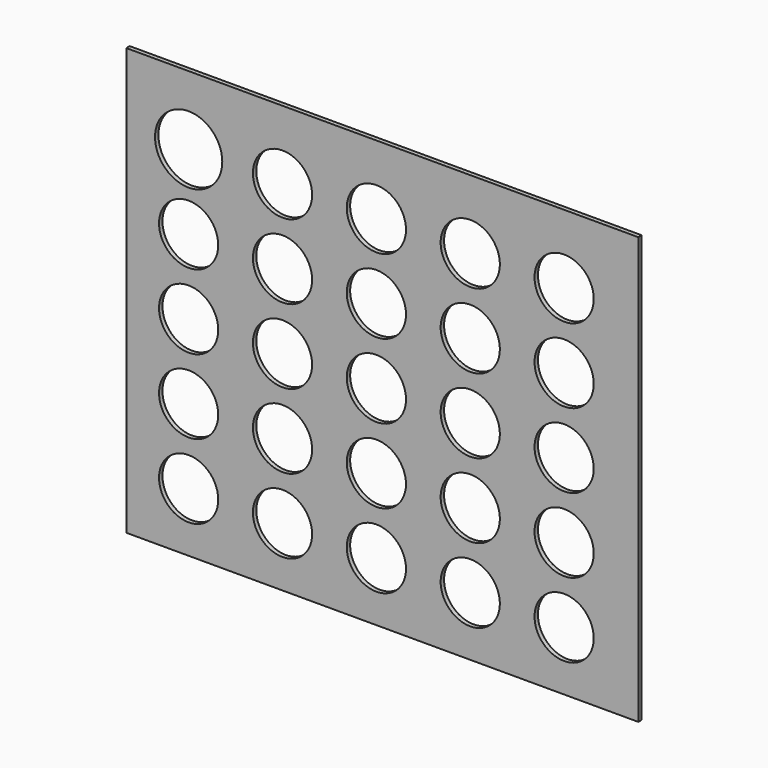
from build123d import *

# Parameters (mm, degrees)
F0_W     = 304.8
F0_H     = 254
F0_R     = 17.624016
F0_R_2   = 20.01992
F1_DEPTH = 2.54
F2_DEPTH = 0.0254


with BuildPart() as f1:
    # F0 (on Front) → F1 (new body)
    with BuildSketch(Plane.XZ):
        with Locations((46.453467, 38.54302)):
            Rectangle(F0_W, F0_H)
        with Locations((-68.827078, -53.292752)):
            Circle(F0_R, mode=Mode.SUBTRACT)
        with Locations((-12.947078, -53.292752)):
            Circle(F0_R, mode=Mode.SUBTRACT)
        with Locations((42.932922, -53.292752)):
            Circle(F0_R, mode=Mode.SUBTRACT)
        with Locations((-68.827078, -8.842752)):
            Circle(F0_R, mode=Mode.SUBTRACT)
        with Locations((-68.827078, 35.607248)):
            Circle(F0_R, mode=Mode.SUBTRACT)
        with Locations((-12.947078, -8.842752)):
            Circle(F0_R, mode=Mode.SUBTRACT)
        with Locations((42.932922, -8.842752)):
            Circle(F0_R, mode=Mode.SUBTRACT)
        with Locations((-12.947078, 35.607248)):
            Circle(F0_R, mode=Mode.SUBTRACT)
        with Locations((42.932922, 35.607248)):
            Circle(F0_R, mode=Mode.SUBTRACT)
        with Locations((98.812922, -53.292752)):
            Circle(F0_R, mode=Mode.SUBTRACT)
        with Locations((154.692922, -53.292752)):
            Circle(F0_R, mode=Mode.SUBTRACT)
        with Locations((98.812922, -8.842752)):
            Circle(F0_R, mode=Mode.SUBTRACT)
        with Locations((98.812922, 35.607248)):
            Circle(F0_R, mode=Mode.SUBTRACT)
        with Locations((154.692922, -8.842752)):
            Circle(F0_R, mode=Mode.SUBTRACT)
        with Locations((154.692922, 35.607248)):
            Circle(F0_R, mode=Mode.SUBTRACT)
        with Locations((-68.827078, 80.057248)):
            Circle(F0_R, mode=Mode.SUBTRACT)
        with Locations((-12.947078, 80.057248)):
            Circle(F0_R, mode=Mode.SUBTRACT)
        with Locations((42.932922, 80.057248)):
            Circle(F0_R, mode=Mode.SUBTRACT)
        with Locations((-68.827078, 124.507248)):
            Circle(F0_R_2, mode=Mode.SUBTRACT)
        with Locations((-12.947078, 124.507248)):
            Circle(F0_R, mode=Mode.SUBTRACT)
        with Locations((42.932922, 124.507248)):
            Circle(F0_R, mode=Mode.SUBTRACT)
        with Locations((98.812922, 80.057248)):
            Circle(F0_R, mode=Mode.SUBTRACT)
        with Locations((154.692922, 80.057248)):
            Circle(F0_R, mode=Mode.SUBTRACT)
        with Locations((98.812922, 124.507248)):
            Circle(F0_R, mode=Mode.SUBTRACT)
        with Locations((154.692922, 124.507248)):
            Circle(F0_R, mode=Mode.SUBTRACT)
    extrude(amount=F1_DEPTH)


with BuildPart() as f2:
    # F0 (on Front) → F2 (new body)
    with BuildSketch(Plane.XZ):
        with Locations((46.453467, 38.54302)):
            Rectangle(F0_W, F0_H)
        with Locations((-68.827078, -53.292752)):
            Circle(F0_R, mode=Mode.SUBTRACT)
        with Locations((-12.947078, -53.292752)):
            Circle(F0_R, mode=Mode.SUBTRACT)
        with Locations((42.932922, -53.292752)):
            Circle(F0_R, mode=Mode.SUBTRACT)
        with Locations((-68.827078, -8.842752)):
            Circle(F0_R, mode=Mode.SUBTRACT)
        with Locations((-68.827078, 35.607248)):
            Circle(F0_R, mode=Mode.SUBTRACT)
        with Locations((-12.947078, -8.842752)):
            Circle(F0_R, mode=Mode.SUBTRACT)
        with Locations((42.932922, -8.842752)):
            Circle(F0_R, mode=Mode.SUBTRACT)
        with Locations((-12.947078, 35.607248)):
            Circle(F0_R, mode=Mode.SUBTRACT)
        with Locations((42.932922, 35.607248)):
            Circle(F0_R, mode=Mode.SUBTRACT)
        with Locations((98.812922, -53.292752)):
            Circle(F0_R, mode=Mode.SUBTRACT)
        with Locations((154.692922, -53.292752)):
            Circle(F0_R, mode=Mode.SUBTRACT)
        with Locations((98.812922, -8.842752)):
            Circle(F0_R, mode=Mode.SUBTRACT)
        with Locations((98.812922, 35.607248)):
            Circle(F0_R, mode=Mode.SUBTRACT)
        with Locations((154.692922, -8.842752)):
            Circle(F0_R, mode=Mode.SUBTRACT)
        with Locations((154.692922, 35.607248)):
            Circle(F0_R, mode=Mode.SUBTRACT)
        with Locations((-68.827078, 80.057248)):
            Circle(F0_R, mode=Mode.SUBTRACT)
        with Locations((-12.947078, 80.057248)):
            Circle(F0_R, mode=Mode.SUBTRACT)
        with Locations((42.932922, 80.057248)):
            Circle(F0_R, mode=Mode.SUBTRACT)
        with Locations((-68.827078, 124.507248)):
            Circle(F0_R_2, mode=Mode.SUBTRACT)
        with Locations((-12.947078, 124.507248)):
            Circle(F0_R, mode=Mode.SUBTRACT)
        with Locations((42.932922, 124.507248)):
            Circle(F0_R, mode=Mode.SUBTRACT)
        with Locations((98.812922, 80.057248)):
            Circle(F0_R, mode=Mode.SUBTRACT)
        with Locations((154.692922, 80.057248)):
            Circle(F0_R, mode=Mode.SUBTRACT)
        with Locations((98.812922, 124.507248)):
            Circle(F0_R, mode=Mode.SUBTRACT)
        with Locations((154.692922, 124.507248)):
            Circle(F0_R, mode=Mode.SUBTRACT)
    extrude(amount=F2_DEPTH)


solid = Compound([f1.part, f2.part])
